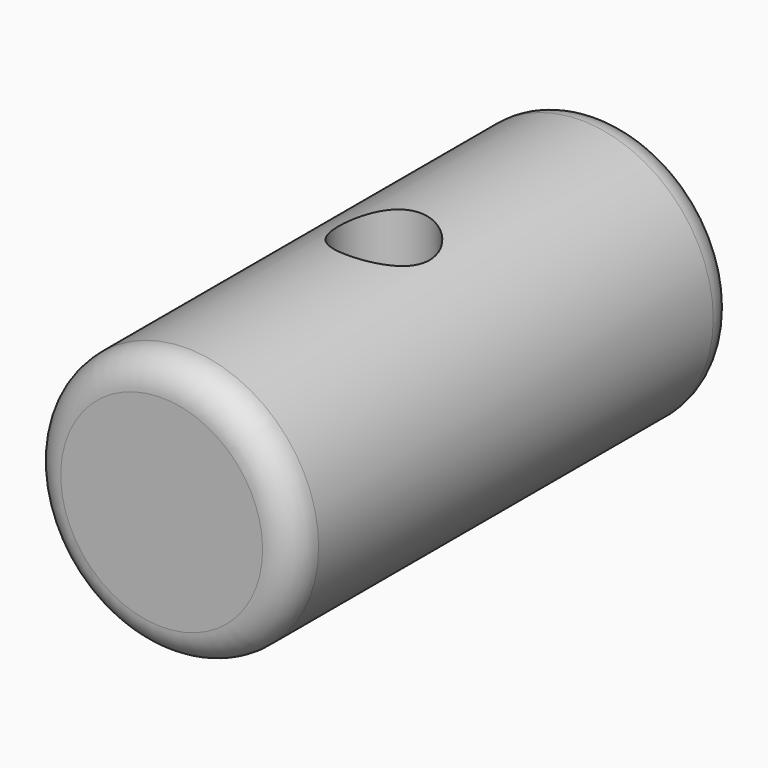
from build123d import *

# Parameters (mm, degrees)
F0_R     = 29.713042
F1_DEPTH = 62.5
F2_R     = 10.267926
F3_DEPTH = 40
F4_R     = 7


with BuildPart() as f1:
    # F0 (on Front) → F1 (new body, symmetric)
    with BuildSketch(Plane.XZ):
        Circle(F0_R)
    extrude(amount=F1_DEPTH, both=True)

    # F2 (on Top) → F3 (cut, symmetric)
    with BuildSketch(Plane.XY):
        Circle(F2_R)
    extrude(amount=F3_DEPTH, both=True, mode=Mode.SUBTRACT)

    # F4
    f4_edges = [f1.edges().sort_by_distance(p)[0] for p in [
        (-29.713042, -62.5, 0),
        (-29.713042, 62.5, 0),
    ]]
    fillet(f4_edges, radius=F4_R)


solid = f1.part
